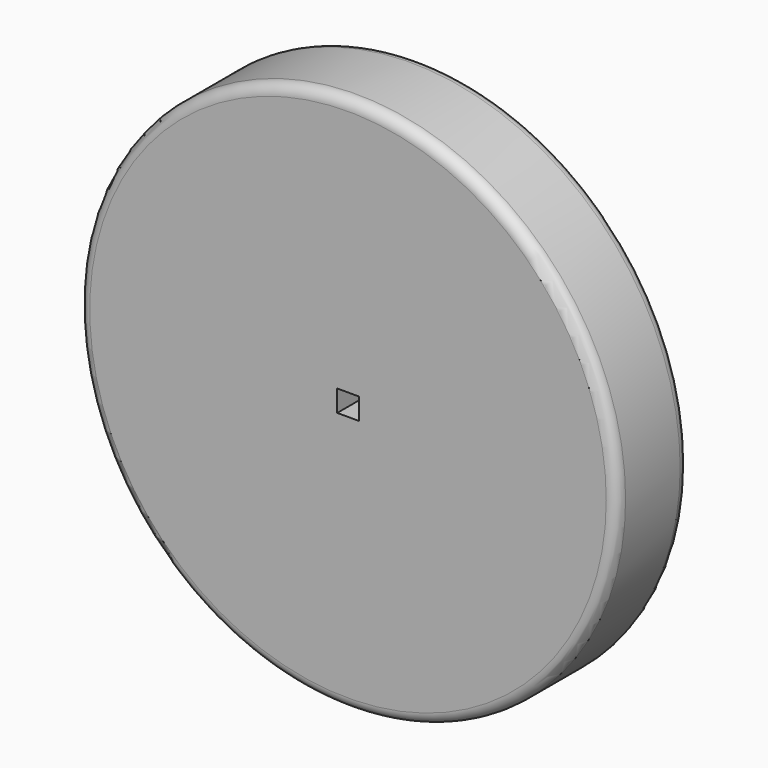
from build123d import *

# Parameters (mm, degrees)
F0_R     = 37.5
F1_DEPTH = 12.5
F2_W     = 3
F2_H     = 3
F3_DEPTH = 12.5
F4_R     = 1.5


with BuildPart() as f1:
    # F0 (on Front) → F1 (new body)
    with BuildSketch(Plane.XZ):
        Circle(F0_R)
    extrude(amount=F1_DEPTH)

    # F2 (on face) → F3 (cut, through all)
    with BuildSketch(Plane(origin=(0, 0, 0), x_dir=(-1, 0, 0), z_dir=(0, 1, 0))):
        Rectangle(F2_W, F2_H)
    extrude(amount=-F3_DEPTH, mode=Mode.SUBTRACT)

    # F4
    f4_edges = [f1.edges().sort_by_distance(p)[0] for p in [
        (-37.5, 0, 0),
        (-37.5, -12.5, 0),
    ]]
    fillet(f4_edges, radius=F4_R)


solid = f1.part
